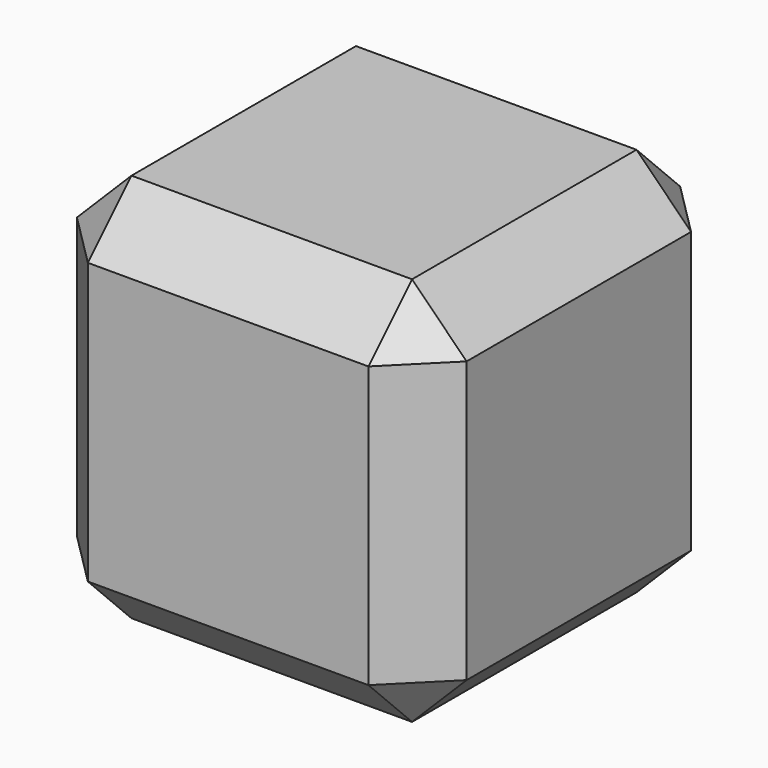
from build123d import *

# Parameters (mm, degrees)
F0_W     = 25
F0_H     = 25
F1_DEPTH = 12.5
F2_SIZE  = 3.5


with BuildPart() as f1:
    # F0 (on Top) → F1 (new body, symmetric)
    with BuildSketch(Plane.XY):
        Rectangle(F0_W, F0_H)
    extrude(amount=F1_DEPTH, both=True)

    # F2
    f2_edges = [f1.edges().sort_by_distance(p)[0] for p in [
        (0, -12.5, -12.5),
        (12.5, -12.5, 0),
        (0, -12.5, 12.5),
        (-12.5, -12.5, 0),
        (12.5, 0, 12.5),
        (0, 12.5, 12.5),
        (-12.5, 0, 12.5),
        (-12.5, 12.5, 0),
        (-12.5, 0, -12.5),
        (12.5, 0, -12.5),
        (12.5, 12.5, 0),
        (0, 12.5, -12.5),
    ]]
    chamfer(f2_edges, length=F2_SIZE)


solid = f1.part
